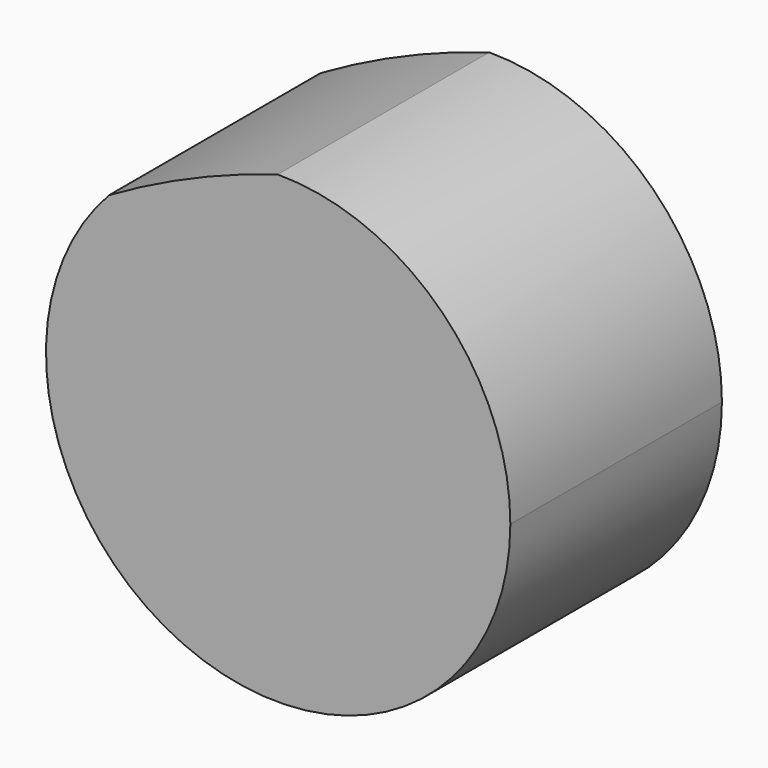
from build123d import *

# Parameters (mm, degrees)
F1_DEPTH = 25


with BuildPart() as f1:
    # F0 (on Front) → F1 (new body)
    with BuildSketch(Plane.XZ):
        with BuildLine():
            ThreePointArc((40.360489, 68.286503), (32.189368, 65.299805), (24.424092, 61.377041))
            ThreePointArc((24.424092, 61.377041), (32.321872, 25.937137), (62.356932, 46.339512))
            ThreePointArc((62.356932, 46.339512), (55.911317, 61.875872), (40.360489, 68.286503))
        make_face()
    extrude(amount=F1_DEPTH)


solid = f1.part
